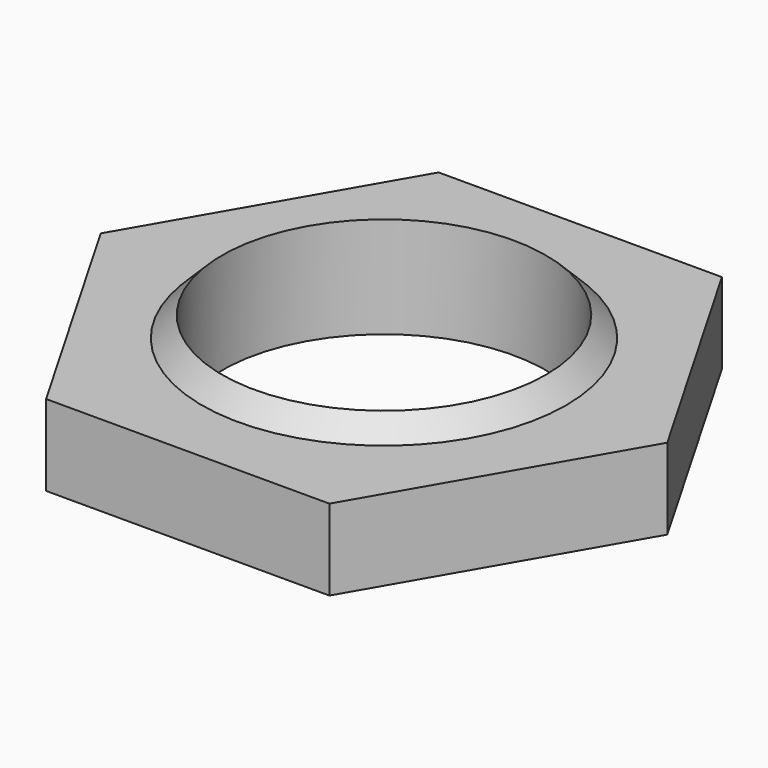
from build123d import *

# Parameters (mm, degrees)
CYLINDER003_R     = 4
CYLINDER003_DEPTH = 10
PRISM_DEPTH       = 2
CYLINDER002_R     = 5
CYLINDER002_DEPTH = 1.5
CHAMFER002_SIZE   = 1


with BuildPart() as cylinder003:
    # Cylinder003 → Cylinder003 (new body)
    with BuildSketch(Plane.XY.offset(-1)):
        Circle(CYLINDER003_R)
    extrude(amount=CYLINDER003_DEPTH)


with BuildPart() as prism:
    # Prism → Prism (new body)
    with BuildSketch(Plane.XY):
        Polygon((7, 0), (3.5, 6.062178), (-3.5, 6.062178), (-7, 0), (-3.5, -6.062178), (3.5, -6.062178), align=None)
    extrude(amount=PRISM_DEPTH)


with BuildPart() as cut003:
    # Cylinder002 → Cylinder002 (new body)
    with BuildSketch(Plane.XY.offset(1)):
        Circle(CYLINDER002_R)
    extrude(amount=CYLINDER002_DEPTH)

    # Chamfer002
    chamfer002_edges = [cut003.edges().sort_by_distance(p)[0] for p in [
        (-5, 0, 2.5),
    ]]
    chamfer(chamfer002_edges, length=CHAMFER002_SIZE)

    # Fusion006: union Prism
    add(prism.part)

    # Cut003: cut Cylinder003
    add(cylinder003.part, mode=Mode.SUBTRACT)


solid = cut003.part
